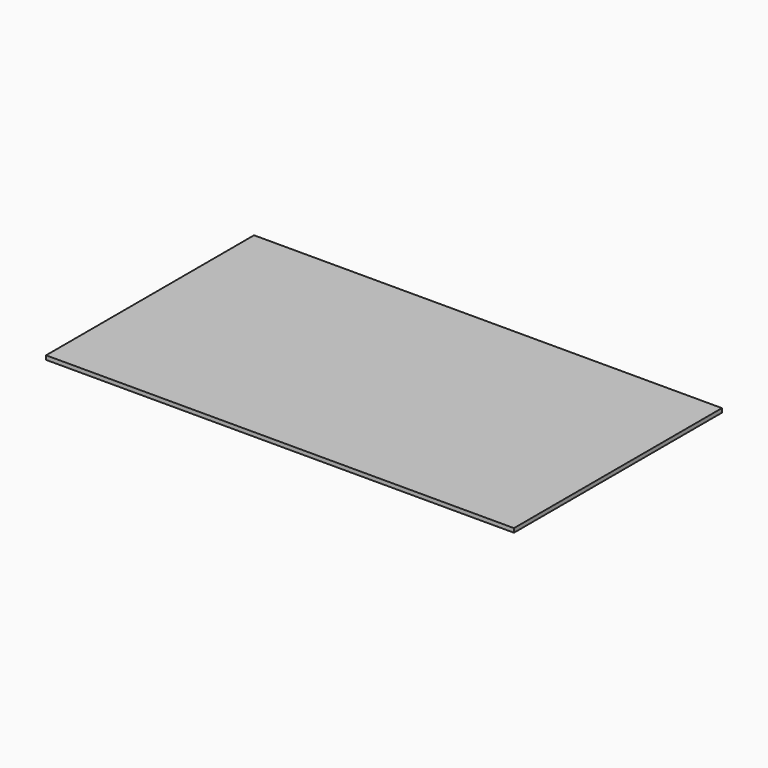
from build123d import *

# Parameters (mm, degrees)
SKETCH_W  = 1371.6
SKETCH_H  = 762
PAD_DEPTH = 11.90625


with BuildPart() as part:
    # Sketch → Pad (new body)
    with BuildSketch(Plane.XY):
        Rectangle(SKETCH_W, SKETCH_H)
    extrude(amount=PAD_DEPTH)


solid = part.part
